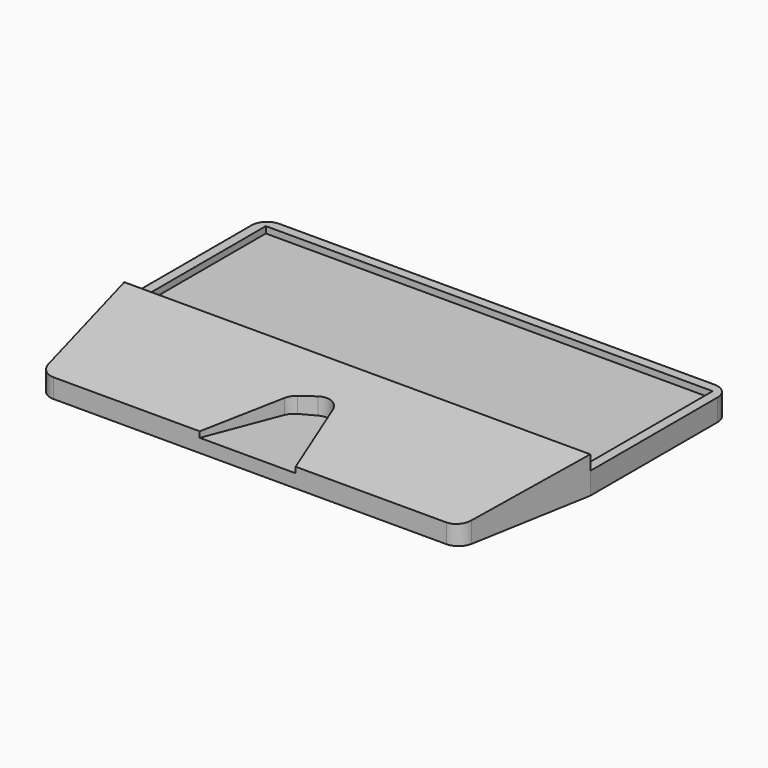
from build123d import *

# Parameters (mm, degrees)
F0_W      = 243
F0_H      = 161
F1_DEPTH  = 19
F2_W      = 243
F2_H      = 91
F3_DEPTH  = 7.6
F4_W      = 233
F4_H      = 81
F5_DEPTH  = 3.4
F7_DEPTH  = 19
F9_DEPTH  = 7
F10_R     = 8
F12_DEPTH = 243


with BuildPart() as f1:
    # F0 (on Top) → F1 (new body)
    with BuildSketch(Plane.XY):
        with Locations((121.5, 80.5)):
            Rectangle(F0_W, F0_H)
    extrude(amount=F1_DEPTH)

    # F2 (on face) → F3 (cut)
    with BuildSketch(Plane.XY.offset(19)):
        with Locations((121.5, 115.5)):
            Rectangle(F2_W, F2_H)
    extrude(amount=-F3_DEPTH, mode=Mode.SUBTRACT)

    # F4 (on face) → F5 (cut)
    with BuildSketch(Plane.XY.offset(11.4)):
        with Locations((121.5, 115.5)):
            Rectangle(F4_W, F4_H)
    extrude(amount=-F5_DEPTH, mode=Mode.SUBTRACT)

    # F6 (on face) → F7 (cut, through all)
    with BuildSketch(Plane.XY.offset(19)):
        Polygon((12.3428886496, 0), (0, 70), (0, 0), align=None)
        Polygon((110.697450051, 40), (95.3428886496, 0), (145.3428886496, 0), (129.1186868819, 49.9329586842), align=None)
        Polygon((243, 70), (230.6571113504, 0), (243, 0), align=None)
    extrude(amount=-F7_DEPTH, mode=Mode.SUBTRACT)

    # F8 (on face) → F9 (join)
    with BuildSketch(Plane(origin=(0, 0, 0), x_dir=(1, 0, 0), z_dir=(0, 0, -1))):
        Polygon((145.3428886496, 0), (95.3428886496, 0), (110.697450051, -40), (129.1186868819, -49.9329586842), align=None)
    extrude(amount=-F9_DEPTH)

    # F10
    f10_edges = [f1.edges().sort_by_distance(p)[0] for p in [
        (0, 161, 5.7),
        (243, 161, 5.7),
        (230.657111, 0, 9.5),
        (12.342889, 0, 9.5),
        (110.69745, 40, 13),
        (129.118687, 49.932959, 13),
    ]]
    fillet(f10_edges, radius=F10_R)

    # F11 (on face) → F12 (cut, through all)
    with BuildSketch(Plane.YZ.offset(243)):
        Polygon((0, 19), (0, 10), (70, 19), align=None)
    extrude(amount=-F12_DEPTH, mode=Mode.SUBTRACT)


solid = f1.part
